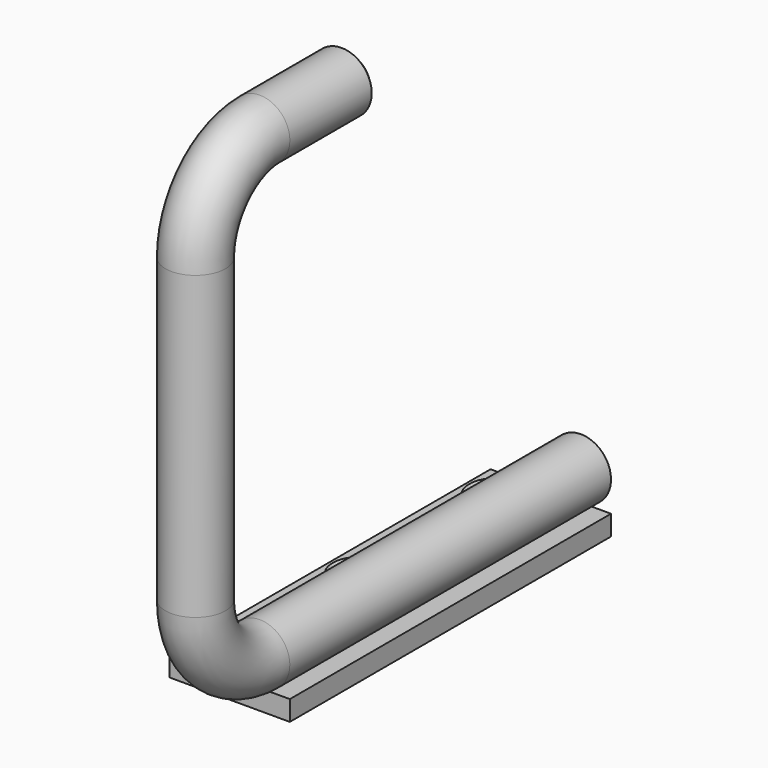
from build123d import *

# Parameters (mm, degrees)
F0_W           = 30
F0_H           = 100
F0_R           = 3
F1_DEPTH       = 5
F5_D           = 7
F5_CSINK_D     = 13.7
F5_CSINK_ANGLE = 90
F6_SIZE        = 2


with BuildPart() as f1:
    # F0 (on Top) → F1 (new body)
    with BuildSketch(Plane.XY):
        with Locations((-15, 50)):
            Rectangle(F0_W, F0_H)
        with Locations((-22.5, 7.5)):
            Circle(F0_R, mode=Mode.SUBTRACT)
        with Locations((-22.5, 50)):
            Circle(F0_R, mode=Mode.SUBTRACT)
        with Locations((-22.5, 92.5)):
            Circle(F0_R, mode=Mode.SUBTRACT)
        with Locations((-22.5, 92.5)):
            Circle(F0_R)
        with Locations((-22.5, 50)):
            Circle(F0_R)
        with Locations((-22.5, 7.5)):
            Circle(F0_R)
    extrude(amount=-F1_DEPTH)

    # F4: sweep along a path in F3
    with BuildLine(Plane(origin=(-30, 0, 0), x_dir=(0, -1, 0), z_dir=(-1, 0, 0))) as f4_path:
        Line((-100, 7.5), (0, 7.5))
        ThreePointArc((0, 7.5), (14.1421356237, 13.3578643763), (20, 27.5))
        Line((20, 27.5), (20, 102.5))
        ThreePointArc((20, 102.5), (14.1421356237, 116.6421356237), (0, 122.5))
        Line((0, 122.5), (-27.5, 122.5))
    # F2 (on face) → F4 (sweep)
    with BuildSketch(Plane(origin=(0, 100, 0), x_dir=(-1, 0, 0), z_dir=(0, 1, 0))):
        with BuildLine():
            ThreePointArc((7.5, 0), (12.8033008589, 2.1966991411), (15, 7.5))
            ThreePointArc((15, 7.5), (2.1966991411, 12.8033008589), (7.5, 0))
        make_face()
    sweep(path=f4_path.line)

    # F5 (through all)
    with Locations(Plane.XY):
        with Locations((-22.5, 92.5), (-22.5, 50), (-22.5, 7.5)):
            CounterSinkHole(F5_D / 2, F5_CSINK_D / 2, counter_sink_angle=F5_CSINK_ANGLE)

    # F6
    f6_edges = [f1.edges().sort_by_distance(p)[0] for p in [
        (-7.5, 27.5, 115),
    ]]
    chamfer(f6_edges, length=F6_SIZE)


solid = f1.part
